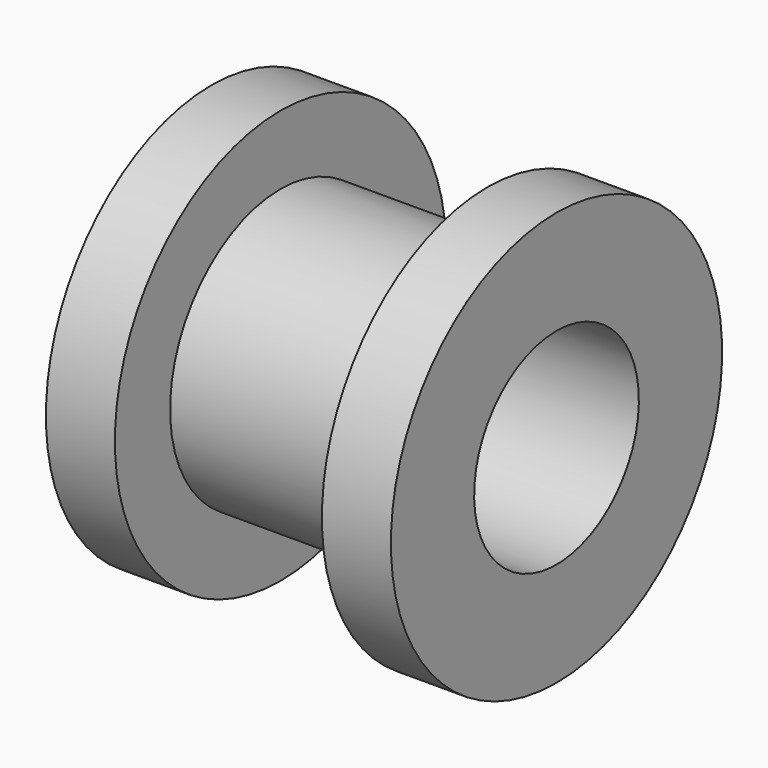
from build123d import *


with BuildPart() as f1:
    # F0 (on Front) → F1 (revolve)
    with BuildSketch(Plane.XZ):
        Polygon((0, 6.35), (0, 4.7371), (12.7, 4.7371), (12.7, 9.525), (9.525, 9.525), (9.525, 6.35), align=None)
        Polygon((-3.175, 4.7371), (0, 4.7371), (0, 6.35), (0, 9.525), (-3.175, 9.525), align=None)
    revolve(axis=Axis((9.827045, 0, 0), (1, 0, 0)))


solid = f1.part
